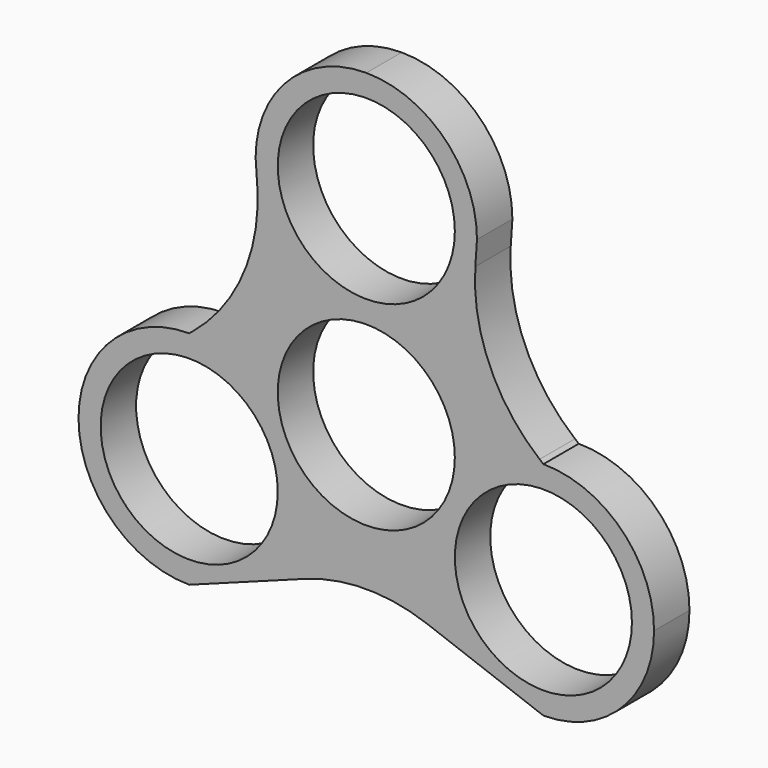
from build123d import *

# Parameters (mm, degrees)
F0_R     = 12.7
F1_DEPTH = 3.175


with BuildPart() as f1:
    # F0 (on Front) → F1 (new body, symmetric)
    with BuildSketch(Plane.XZ):
        with BuildLine():
            ThreePointArc((-41.275, 0), (-36.62532, -11.22532), (-25.4, -15.875))
            Line((-25.4, -15.875), (-8.814026, -9.738189))
            ThreePointArc((-8.814026, -9.738189), (0, -8.15988), (8.814026, -9.738189))
            Line((8.814026, -9.738189), (25.4, -15.875))
            ThreePointArc((25.4, -15.875), (36.62532, -11.22532), (41.275, 0))
            ThreePointArc((41.275, 0), (36.62532, 11.22532), (25.4, 15.875))
            Line((25.4, 15.875), (24.860597, 16.31807))
            ThreePointArc((24.860597, 16.31807), (17.667983, 25.866743), (15.639876, 37.647984))
            Line((15.639876, 37.647984), (15.875, 41.148))
            ThreePointArc((15.875, 41.148), (11.22532, 52.37332), (0, 57.023))
            ThreePointArc((0, 57.023), (-11.22532, 52.37332), (-15.875, 41.148))
            Line((-15.875, 41.148), (-15.639876, 37.647984))
            ThreePointArc((-15.639876, 37.647984), (-17.667983, 25.866743), (-24.860597, 16.31807))
            Line((-24.860597, 16.31807), (-25.4, 15.875))
            ThreePointArc((-25.4, 15.875), (-36.62532, 11.22532), (-41.275, 0))
        make_face()
        with Locations((-25.4, 0)):
            Circle(F0_R, mode=Mode.SUBTRACT)
        with Locations((25.4, 0)):
            Circle(F0_R, mode=Mode.SUBTRACT)
        with Locations((0, 12.573)):
            Circle(F0_R, mode=Mode.SUBTRACT)
        with Locations((0, 41.148)):
            Circle(F0_R, mode=Mode.SUBTRACT)
    extrude(amount=F1_DEPTH, both=True)


solid = f1.part
